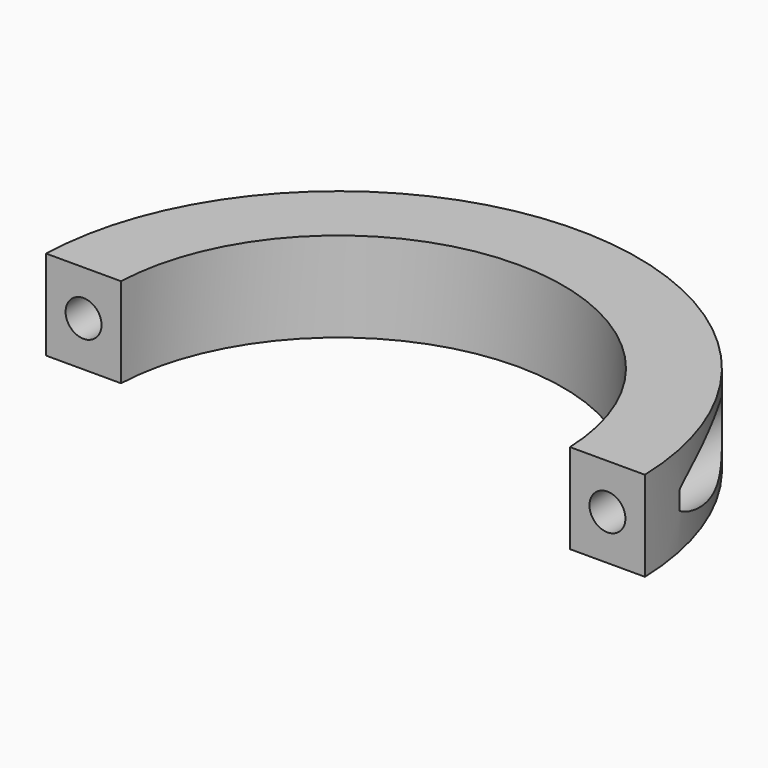
from build123d import *

# Parameters (mm, degrees)
F0_R     = 50
F0_R_2   = 37.5
F1_DEPTH = 15
F2_W     = 110
F2_H     = 64.89666
F3_DEPTH = 15.001
F4_R     = 3
F5_DEPTH = 50.001
F7_R     = 5.5
F8_DEPTH = 25


with BuildPart() as f1:
    # F0 (on Top) → F1 (new body)
    with BuildSketch(Plane.XY):
        Circle(F0_R)
        Circle(F0_R_2, mode=Mode.SUBTRACT)
    extrude(amount=F1_DEPTH)

    # F2 (on face) → F3 (cut, through all)
    with BuildSketch(Plane.XY.offset(15)):
        with Locations((0, -30.94833)):
            Rectangle(F2_W, F2_H)
    extrude(amount=-F3_DEPTH, mode=Mode.SUBTRACT)

    # F4 (on Front) → F5 (cut, through all)
    with BuildSketch(Plane.XZ):
        with Locations((-43.723741, 7.5)):
            Circle(F4_R)
        with Locations((43.723741, 7.5)):
            Circle(F4_R)
    extrude(amount=-F5_DEPTH, mode=Mode.SUBTRACT)

    # F7 (on offset) → F8 (cut)
    with BuildSketch(Plane.XZ.offset(-10)):
        with Locations((43.723741, 7.5)):
            Circle(F7_R)
        with Locations((-43.723741, 7.5)):
            Circle(F7_R)
    extrude(amount=-F8_DEPTH, mode=Mode.SUBTRACT)


solid = f1.part
